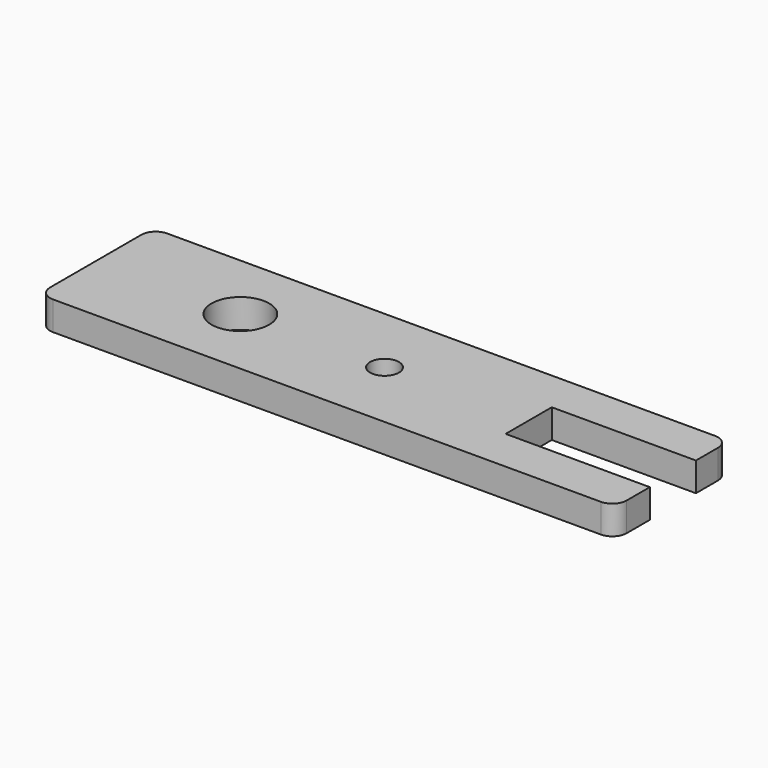
from build123d import *

# Parameters (mm, degrees)
F0_W     = 200
F0_H     = 49.526437
F1_DEPTH = 10
F2_R     = 5
F3_R     = 5
F3_R_2   = 10
F4_DEPTH = 10.001
F5_W     = 50
F5_H     = 20
F6_DEPTH = 25


with BuildPart() as f1:
    # F0 (on Top) → F1 (new body)
    with BuildSketch(Plane.XY):
        with Locations((-52.009064, -0.236782)):
            Rectangle(F0_W, F0_H)
    extrude(amount=F1_DEPTH)

    # F2
    f2_edges = [f1.edges().sort_by_distance(p)[0] for p in [
        (47.990936, -25, 5),
        (47.990936, 24.526437, 5),
        (-152.009064, -25, 5),
        (-152.009064, 24.526437, 5),
    ]]
    fillet(f2_edges, radius=F2_R)

    # F3 (on face) → F4 (cut, through all)
    with BuildSketch(Plane.XY.offset(10)):
        with Locations((-52.009064, 0)):
            Circle(F3_R)
        with Locations((-102.009064, 0)):
            Circle(F3_R_2)
    extrude(amount=-F4_DEPTH, mode=Mode.SUBTRACT)

    # F5 (on face) → F6 (cut)
    with BuildSketch(Plane.XY.offset(10)):
        with Locations((22.990936, 0)):
            Rectangle(F5_W, F5_H)
    extrude(amount=-F6_DEPTH, mode=Mode.SUBTRACT)


solid = f1.part
